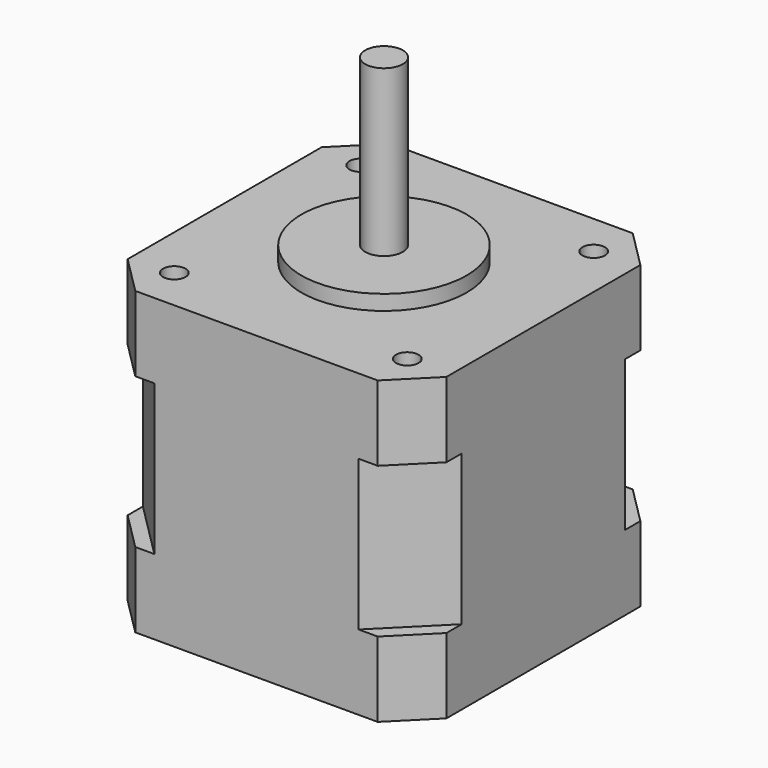
from build123d import *

# Parameters (mm, degrees)
F0_W      = 42.418
F0_H      = 42.418
F1_DEPTH  = 10
F2_SIZE   = 7.62
F4_DEPTH  = 10
F5_SIZE   = 5.08
F7_DEPTH  = 10
F8_R      = 10.9982
F9_DEPTH  = 2
F10_R     = 2.5
F11_DEPTH = 22
F13_DEPTH = 15
F14_R     = 1.5
F15_DEPTH = 6.35


with BuildPart() as f1:
    # F0 (on Top) → F1 (new body, symmetric)
    with BuildSketch(Plane.XY):
        Rectangle(F0_W, F0_H)
    extrude(amount=F1_DEPTH, both=True)

    # F2
    f2_edges = [f1.edges().sort_by_distance(p)[0] for p in [
        (21.209, 21.209, 0),
        (-21.209, 21.209, 0),
        (-21.209, -21.209, 0),
        (21.209, -21.209, 0),
    ]]
    chamfer(f2_edges, length=F2_SIZE)

    # F3 (on face) → F4 (join)
    with BuildSketch(Plane.XY.offset(10)):
        Polygon((13.589, 21.209), (-13.589, 21.209), (-21.209, 13.589), (-21.209, -13.589), (-13.589, -21.209), (13.589, -21.209), (21.209, -13.589), (21.209, 13.589), align=None)
        Polygon((21.209, 21.209), (13.589, 21.209), (21.209, 13.589), align=None)
        Polygon((-13.589, 21.209), (-21.209, 21.209), (-21.209, 13.589), align=None)
        Polygon((-13.589, -21.209), (-21.209, -13.589), (-21.209, -21.209), align=None)
        Polygon((21.209, -21.209), (21.209, -13.589), (13.589, -21.209), align=None)
    extrude(amount=F4_DEPTH)

    # F5
    f5_edges = [f1.edges().sort_by_distance(p)[0] for p in [
        (21.209, 21.209, 15),
        (-21.209, 21.209, 15),
        (-21.209, -21.209, 15),
        (21.209, -21.209, 15),
    ]]
    chamfer(f5_edges, length=F5_SIZE)

    # F6 (on face) → F7 (join)
    with BuildSketch(Plane(origin=(0, 0, -10), x_dir=(1, 0, 0), z_dir=(0, 0, -1))):
        Polygon((-13.589, 21.209), (-16.129, 21.209), (-21.209, 16.129), (-21.209, 13.589), align=None)
        Polygon((16.129, 21.209), (13.589, 21.209), (21.209, 13.589), (21.209, 16.129), align=None)
        Polygon((21.209, -16.129), (21.209, -13.589), (13.589, -21.209), (16.129, -21.209), align=None)
        Polygon((-13.589, -21.209), (-21.209, -13.589), (-21.209, -16.129), (-16.129, -21.209), align=None)
        Polygon((13.589, 21.209), (-13.589, 21.209), (-21.209, 13.589), (-21.209, -13.589), (-13.589, -21.209), (13.589, -21.209), (21.209, -13.589), (21.209, 13.589), align=None)
    extrude(amount=F7_DEPTH)

    # F8 (on face) → F9 (join)
    with BuildSketch(Plane.XY.offset(20)):
        Circle(F8_R)
    extrude(amount=F9_DEPTH)

    # F12 (on face) → F13 (cut)
    with BuildSketch(Plane.XY.offset(44)):
        with BuildLine():
            Line((2.6203631624, 2.9334036984), (-2.6333660554, 2.9334036984))
            Line((-2.6333660554, 2.9334036984), (-2.6333660554, 2))
            Line((-2.6333660554, 2), (-1.5, 2))
            ThreePointArc((-1.5, 2), (0, 2.5), (1.5, 2))
            Line((1.5, 2), (2.6203631624, 2))
            Line((2.6203631624, 2), (2.6203631624, 2.9334036984))
        make_face()
        with BuildLine():
            Line((2.6203631624, 2.9334036984), (-2.6333660554, 2.9334036984))
            Line((-2.6333660554, 2.9334036984), (-2.6333660554, 2))
            Line((-2.6333660554, 2), (-1.5, 2))
            ThreePointArc((-1.5, 2), (0, 2.5), (1.5, 2))
            Line((1.5, 2), (2.6203631624, 2))
            Line((2.6203631624, 2), (2.6203631624, 2.9334036984))
        make_face()
    extrude(amount=-F13_DEPTH, mode=Mode.SUBTRACT)

    # F14 (on face) → F15 (cut)
    with BuildSketch(Plane.XY.offset(20)):
        with Locations((-15.5, 15.5)):
            Circle(F14_R)
        with Locations((15.5, 15.5)):
            Circle(F14_R)
        with Locations((15.5, -15.5)):
            Circle(F14_R)
        with Locations((-15.5, -15.5)):
            Circle(F14_R)
    extrude(amount=-F15_DEPTH, mode=Mode.SUBTRACT)


with BuildPart() as f11:
    # F10 (on face) → F11 (new body)
    with BuildSketch(Plane.XY.offset(22)):
        Circle(F10_R)
    extrude(amount=F11_DEPTH)


solid = Compound([f1.part, f11.part])
